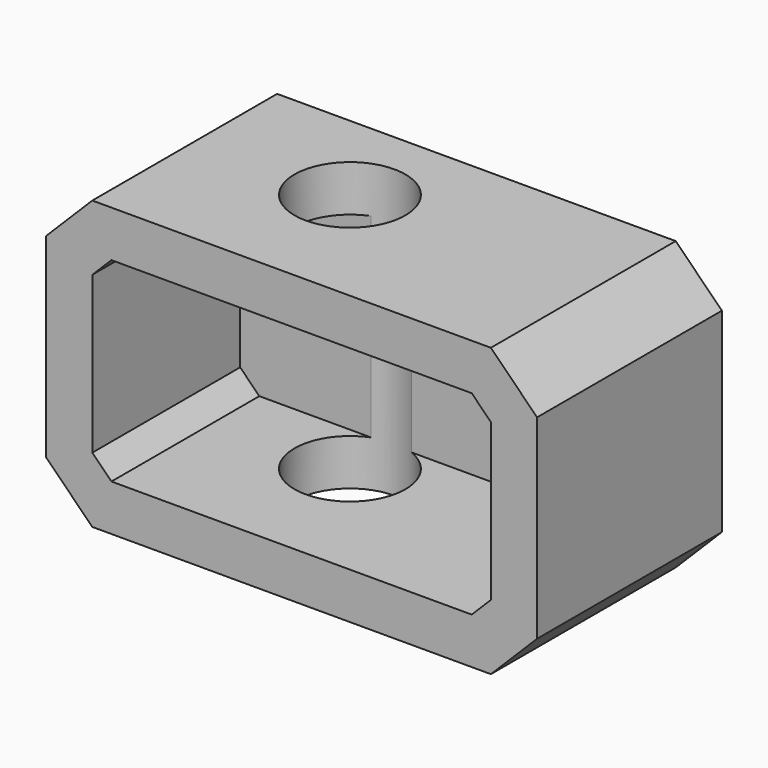
from build123d import *

# Parameters (mm, degrees)
F0_W     = 53.126359
F0_H     = 31.090025
F1_DEPTH = 25
F2_SIZE  = 5
F3_T     = -5
F5_D     = 12


with BuildPart() as f1:
    # F0 (on Front) → F1 (new body)
    with BuildSketch(Plane.XZ):
        with Locations((-32.712854, -4.270607)):
            Rectangle(F0_W, F0_H)
    extrude(amount=F1_DEPTH)

    # F2
    f2_edges = [f1.edges().sort_by_distance(p)[0] for p in [
        (-6.149674, -12.5, 11.274405),
        (-59.276033, -12.5, 11.274405),
        (-6.149674, -12.5, -19.81562),
        (-59.276033, -12.5, -19.81562),
    ]]
    chamfer(f2_edges, length=F2_SIZE)

    # F3
    f3_openings = [f1.faces().sort_by_distance(p)[0] for p in [
        (-32.712854, -25, -4.270608),
    ]]
    offset(amount=F3_T, openings=f3_openings)

    # F5 (through all)
    with Locations(Plane.XY.offset(11.274405)):
        with Locations((-37.922993, -10.591106)):
            Hole(F5_D / 2)


solid = f1.part
